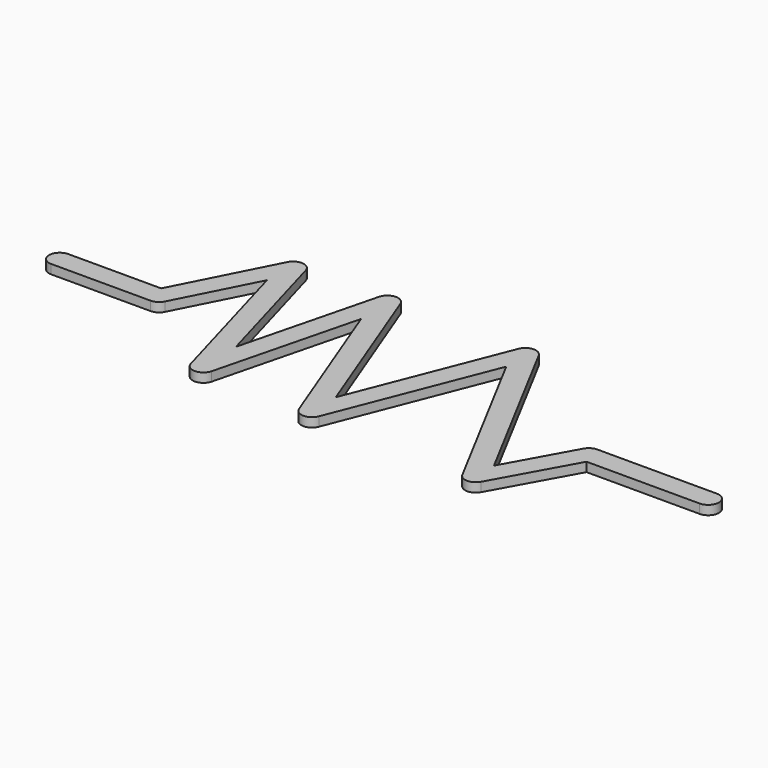
from build123d import *

# Parameters (mm, degrees)
F1_DEPTH = 1.2


with BuildPart() as f1:
    # F0 (on Top) → F1 (new body)
    with BuildSketch(Plane.XY):
        with BuildLine():
            Line((6.3704812502, 13.7467025459), (-1.494936328, -6.2539292195))
            Line((-1.494936328, -6.2539292195), (-0.7523663042, -8.1910684925))
            Line((-0.7523663042, -8.1910684925), (6.9996274972, 11.521142834))
            Line((6.9996274972, 11.521142834), (6.4376895762, 12.5762100378))
            ThreePointArc((6.4376895762, 12.5762100378), (6.2756574717, 13.154082108), (6.3704812502, 13.7467025459))
        make_face()
        with BuildLine():
            ThreePointArc((21.7679784808, -10.2508880555), (21.9322680974, -10.9201946527), (21.7573096757, -11.5867919448))
            Line((21.7573096757, -11.5867919448), (27.3935520686, -1.4))
            Line((27.3935520686, -1.4), (26.5681530039, -1.4))
            ThreePointArc((26.5681530039, -1.4), (26.2181499387, -1.3555433798), (25.8903753784, -1.2249969349))
            Line((25.8903753784, -1.2249969349), (21.3405117264, -9.4482973485))
            Line((21.3405117264, -9.4482973485), (21.7679784808, -10.2508880555))
        make_face()
        with BuildLine():
            ThreePointArc((19.307315806, -10.2312366939), (19.1323573844, -10.897833986), (19.296647001, -11.5671405832))
            ThreePointArc((19.296647001, -11.5671405832), (20.5211324075, -12.3089696759), (21.7573096757, -11.5867919448))
            ThreePointArc((21.7573096757, -11.5867919448), (21.9322680974, -10.9201946527), (21.7679784808, -10.2508880555))
            Line((21.7679784808, -10.2508880555), (21.3405117264, -9.4482973485))
            Line((21.3405117264, -9.4482973485), (20.5323127409, -10.9090143194))
            Line((20.5323127409, -10.9090143194), (19.7475465303, -9.4355755986))
            Line((19.7475465303, -9.4355755986), (19.307315806, -10.2312366939))
        make_face()
        Polygon((-1.494936328, -6.2539292195), (-2.2541858179, -8.1845920629), (-1.5116157942, -10.1217313359), (-0.7523663042, -8.1910684925), align=None)
        Polygon((20.5557455158, -7.9748586277), (19.7475465303, -9.4355755986), (20.5323127409, -10.9090143194), (21.3405117264, -9.4482973485), align=None)
        with BuildLine():
            ThreePointArc((-0.204371223, -9.6206209378), (-0.1116288117, -10.127768624), (-0.2087417282, -10.6340975802))
            Line((-0.2087417282, -10.6340975802), (7.8650201285, 9.8963238823))
            Line((7.8650201285, 9.8963238823), (6.9996274972, 11.521142834))
            Line((6.9996274972, 11.521142834), (-0.7523663042, -8.1910684925))
            Line((-0.7523663042, -8.1910684925), (-0.204371223, -9.6206209378))
        make_face()
        with BuildLine():
            ThreePointArc((26.5681530039, 1.4), (25.8571286286, 1.2060034568), (25.343156069, 0.6777776255))
            ThreePointArc((25.343156069, 0.6777776255), (25.2226882092, -0.3869424845), (25.8903753784, -1.2249969349))
            Line((25.8903753784, -1.2249969349), (26.5681530039, 0))
            Line((26.5681530039, 0), (27.9681530039, 0))
            ThreePointArc((27.9681530039, 0), (27.5581024975, 0.9899494937), (26.5681530039, 1.4))
        make_face()
        with BuildLine():
            Line((25.343156069, 0.6777776255), (20.5557455158, -7.9748586277))
            Line((20.5557455158, -7.9748586277), (21.3405117264, -9.4482973485))
            Line((21.3405117264, -9.4482973485), (25.8903753784, -1.2249969349))
            ThreePointArc((25.8903753784, -1.2249969349), (25.2226882092, -0.3869424845), (25.343156069, 0.6777776255))
        make_face()
        with BuildLine():
            ThreePointArc((8.9090210561, 13.8924625655), (7.5931011225, 14.6320341461), (6.3704812502, 13.7467025459))
            ThreePointArc((6.3704812502, 13.7467025459), (6.2756574717, 13.154082108), (6.4376895762, 12.5762100378))
            Line((6.4376895762, 12.5762100378), (6.9996274972, 11.521142834))
            Line((6.9996274972, 11.521142834), (7.6733553161, 13.2343363017))
            Line((7.6733553161, 13.2343363017), (8.5387479474, 11.6095173501))
            Line((8.5387479474, 11.6095173501), (8.9762293821, 12.7219700574))
            ThreePointArc((8.9762293821, 12.7219700574), (9.0710531606, 13.3145904953), (8.9090210561, 13.8924625655))
        make_face()
        Polygon((-11.1613144434, 11.1400828532), (-10.291221096, 8.8702740266), (-9.6952787124, 11.2269554259), (-10.5653720597, 13.4967642526), align=None)
        with BuildLine():
            Line((-11.9226489058, 13.8399836623), (-16.4153779515, -3.9267187325))
            Line((-16.4153779515, -3.9267187325), (-15.6524504368, -6.6203197433))
            Line((-15.6524504368, -6.6203197433), (-11.1613144434, 11.1400828532))
            Line((-11.1613144434, 11.1400828532), (-11.8726166309, 12.9956538545))
            ThreePointArc((-11.8726166309, 12.9956538545), (-11.9629205569, 13.4139500136), (-11.9226489058, 13.8399836623))
        make_face()
        with BuildLine():
            ThreePointArc((-9.2581274886, 13.9978746507), (-10.6481862987, 14.8943127497), (-11.9226489058, 13.8399836623))
            ThreePointArc((-11.9226489058, 13.8399836623), (-11.9629205569, 13.4139500136), (-11.8726166309, 12.9956538545))
            Line((-11.8726166309, 12.9956538545), (-11.1613144434, 11.1400828532))
            Line((-11.1613144434, 11.1400828532), (-10.5653720597, 13.4967642526))
            Line((-10.5653720597, 13.4967642526), (-9.6952787124, 11.2269554259))
            Line((-9.6952787124, 11.2269554259), (-9.2080952137, 13.1535448428))
            ThreePointArc((-9.2080952137, 13.1535448428), (-9.1678235626, 13.5795784916), (-9.2581274886, 13.9978746507))
        make_face()
        with BuildLine():
            Line((-9.2080952137, 13.1535448428), (-9.6952787124, 11.2269554259))
            Line((-9.6952787124, 11.2269554259), (-2.2541858179, -8.1845920629))
            Line((-2.2541858179, -8.1845920629), (-1.494936328, -6.2539292195))
            Line((-1.494936328, -6.2539292195), (-9.2581274886, 13.9978746507))
            ThreePointArc((-9.2581274886, 13.9978746507), (-9.1678235626, 13.5795784916), (-9.2080952137, 13.1535448428))
        make_face()
        with BuildLine():
            Line((27.7931499387, -0.6777776255), (27.3935520686, -1.4))
            Line((27.3935520686, -1.4), (42.1826000015, -1.4))
            ThreePointArc((42.1826000015, -1.4), (43.5826000015, 0), (42.1826000015, 1.4))
            Line((42.1826000015, 1.4), (26.5681530039, 1.4))
            ThreePointArc((26.5681530039, 1.4), (27.5581024975, 0.9899494937), (27.9681530039, 0))
            ThreePointArc((27.9681530039, 0), (27.9236963836, -0.3500030651), (27.7931499387, -0.6777776255))
        make_face()
        with BuildLine():
            ThreePointArc((-29.5913815498, -1.4), (-30.5813310435, -0.9899494937), (-30.9913815498, 0))
            ThreePointArc((-30.9913815498, 0), (-30.9525728971, 0.327350143), (-30.8382985268, 0.6365516888))
            Line((-30.8382985268, 0.6365516888), (-30.4485578137, 1.4))
            Line((-30.4485578137, 1.4), (-42.5815542539, 1.4))
            ThreePointArc((-42.5815542539, 1.4), (-43.9815542539, 0), (-42.5815542539, -1.4))
            Line((-42.5815542539, -1.4), (-29.5913815498, -1.4))
        make_face()
        with BuildLine():
            Line((-29.5913815498, 0), (-30.9913815498, 0))
            ThreePointArc((-30.9913815498, 0), (-30.5813310435, -0.9899494937), (-29.5913815498, -1.4))
            ThreePointArc((-29.5913815498, -1.4), (-28.8603454236, -1.1939791381), (-28.3444645728, -0.6365516888))
            ThreePointArc((-28.3444645728, -0.6365516888), (-28.2595680841, 0.4315934343), (-28.9548298611, 1.246916977))
            Line((-28.9548298611, 1.246916977), (-29.5913815498, 0))
        make_face()
        with BuildLine():
            ThreePointArc((-29.5913815498, 1.4), (-29.2640314069, 1.3611913473), (-28.9548298611, 1.246916977))
            Line((-28.9548298611, 1.246916977), (-23.7041070264, 11.532358929))
            Line((-23.7041070264, 11.532358929), (-24.1152732197, 12.9840272101))
            ThreePointArc((-24.1152732197, 12.9840272101), (-24.1615440312, 13.5025345407), (-24.0151787573, 14.0021024005))
            Line((-24.0151787573, 14.0021024005), (-30.4485578137, 1.4))
            Line((-30.4485578137, 1.4), (-29.5913815498, 1.4))
        make_face()
        with BuildLine():
            Line((-23.7041070264, 11.532358929), (-28.9548298611, 1.246916977))
            ThreePointArc((-28.9548298611, 1.246916977), (-28.2595680841, 0.4315934343), (-28.3444645728, -0.6365516888))
            Line((-28.3444645728, -0.6365516888), (-23.1431989939, 9.5520103193))
            Line((-23.1431989939, 9.5520103193), (-23.7041070264, 11.532358929))
        make_face()
        with BuildLine():
            Line((-24.1152732197, 12.9840272101), (-23.7041070264, 11.532358929))
            Line((-23.7041070264, 11.532358929), (-22.7682617803, 13.3655507118))
            Line((-22.7682617803, 13.3655507118), (-22.2073537479, 11.3852021021))
            Line((-22.2073537479, 11.3852021021), (-21.5213448033, 12.728999023))
            ThreePointArc((-21.5213448033, 12.728999023), (-21.3749795295, 13.2285668828), (-21.421250341, 13.7470742134))
            ThreePointArc((-21.421250341, 13.7470742134), (-22.6312779514, 14.7588329626), (-24.0151787573, 14.0021024005))
            ThreePointArc((-24.0151787573, 14.0021024005), (-24.1615440312, 13.5025345407), (-24.1152732197, 12.9840272101))
        make_face()
        Polygon((-22.7682617803, 13.3655507118), (-23.7041070264, 11.532358929), (-23.1431989939, 9.5520103193), (-22.2073537479, 11.3852021021), align=None)
        with BuildLine():
            Line((-21.5213448033, 12.728999023), (-22.2073537479, 11.3852021021))
            Line((-22.2073537479, 11.3852021021), (-17.1017092788, -6.6408473417))
            Line((-17.1017092788, -6.6408473417), (-16.4153779515, -3.9267187325))
            Line((-16.4153779515, -3.9267187325), (-21.421250341, 13.7470742134))
            ThreePointArc((-21.421250341, 13.7470742134), (-21.3749795295, 13.2285668828), (-21.5213448033, 12.728999023))
        make_face()
        with BuildLine():
            Line((-22.2073537479, 11.3852021021), (-23.1431989939, 9.5520103193))
            Line((-23.1431989939, 9.5520103193), (-17.6857932034, -9.7159718541))
            ThreePointArc((-17.6857932034, -9.7159718541), (-17.738641348, -9.3542762497), (-17.6960586101, -8.9912289427))
            Line((-17.6960586101, -8.9912289427), (-17.1017092788, -6.6408473417))
            Line((-17.1017092788, -6.6408473417), (-22.2073537479, 11.3852021021))
        make_face()
        with BuildLine():
            ThreePointArc((-17.6960586101, -8.9912289427), (-17.738641348, -9.3542762497), (-17.6857932034, -9.7159718541))
            ThreePointArc((-17.6857932034, -9.7159718541), (-16.3189538669, -10.7343079363), (-14.9815049181, -9.6776677622))
            ThreePointArc((-14.9815049181, -9.6776677622), (-14.9389221803, -9.3146204552), (-14.9917703248, -8.9529248508))
            Line((-14.9917703248, -8.9529248508), (-15.6524504368, -6.6203197433))
            Line((-15.6524504368, -6.6203197433), (-16.3387817641, -9.3344483525))
            Line((-16.3387817641, -9.3344483525), (-17.1017092788, -6.6408473417))
            Line((-17.1017092788, -6.6408473417), (-17.6960586101, -8.9912289427))
        make_face()
        Polygon((-16.4153779515, -3.9267187325), (-17.1017092788, -6.6408473417), (-16.3387817641, -9.3344483525), (-15.6524504368, -6.6203197433), align=None)
        with BuildLine():
            ThreePointArc((-14.9917703248, -8.9529248508), (-14.9389221803, -9.3146204552), (-14.9815049181, -9.6776677622))
            Line((-14.9815049181, -9.6776677622), (-10.291221096, 8.8702740266))
            Line((-10.291221096, 8.8702740266), (-11.1613144434, 11.1400828532))
            Line((-11.1613144434, 11.1400828532), (-15.6524504368, -6.6203197433))
            Line((-15.6524504368, -6.6203197433), (-14.9917703248, -8.9529248508))
        make_face()
        Polygon((6.9996274972, 11.521142834), (7.8650201285, 9.8963238823), (8.5387479474, 11.6095173501), (7.6733553161, 13.2343363017), align=None)
        with BuildLine():
            Line((-9.6952787124, 11.2269554259), (-10.291221096, 8.8702740266))
            Line((-10.291221096, 8.8702740266), (-2.8188603653, -10.622841734))
            ThreePointArc((-2.8188603653, -10.622841734), (-2.9116027766, -10.1156940479), (-2.8144898601, -9.6093650917))
            Line((-2.8144898601, -9.6093650917), (-2.2541858179, -8.1845920629))
            Line((-2.2541858179, -8.1845920629), (-9.6952787124, 11.2269554259))
        make_face()
        with BuildLine():
            Line((8.5387479474, 11.6095173501), (7.8650201285, 9.8963238823))
            Line((7.8650201285, 9.8963238823), (19.296647001, -11.5671405832))
            ThreePointArc((19.296647001, -11.5671405832), (19.1323573844, -10.897833986), (19.307315806, -10.2312366939))
            Line((19.307315806, -10.2312366939), (19.7475465303, -9.4355755986))
            Line((19.7475465303, -9.4355755986), (8.5387479474, 11.6095173501))
        make_face()
        with BuildLine():
            ThreePointArc((-2.8144898601, -9.6093650917), (-2.9116027766, -10.1156940479), (-2.8188603653, -10.622841734))
            ThreePointArc((-2.8188603653, -10.622841734), (-1.5176530822, -11.5217183184), (-0.2087417282, -10.6340975802))
            ThreePointArc((-0.2087417282, -10.6340975802), (-0.1116288117, -10.127768624), (-0.204371223, -9.6206209378))
            Line((-0.204371223, -9.6206209378), (-0.7523663042, -8.1910684925))
            Line((-0.7523663042, -8.1910684925), (-1.5116157942, -10.1217313359))
            Line((-1.5116157942, -10.1217313359), (-2.2541858179, -8.1845920629))
            Line((-2.2541858179, -8.1845920629), (-2.8144898601, -9.6093650917))
        make_face()
        with BuildLine():
            Line((8.9762293821, 12.7219700574), (8.5387479474, 11.6095173501))
            Line((8.5387479474, 11.6095173501), (19.7475465303, -9.4355755986))
            Line((19.7475465303, -9.4355755986), (20.5557455158, -7.9748586277))
            Line((20.5557455158, -7.9748586277), (8.9090210561, 13.8924625655))
            ThreePointArc((8.9090210561, 13.8924625655), (9.0710531606, 13.3145904953), (8.9762293821, 12.7219700574))
        make_face()
        with BuildLine():
            ThreePointArc((-30.8382985268, 0.6365516888), (-30.9525728971, 0.327350143), (-30.9913815498, 0))
            Line((-30.9913815498, 0), (-29.5913815498, 0))
            Line((-29.5913815498, 0), (-28.9548298611, 1.246916977))
            ThreePointArc((-28.9548298611, 1.246916977), (-29.2640314069, 1.3611913473), (-29.5913815498, 1.4))
            Line((-29.5913815498, 1.4), (-30.4485578137, 1.4))
            Line((-30.4485578137, 1.4), (-30.8382985268, 0.6365516888))
        make_face()
        with BuildLine():
            Line((26.5681530039, -1.4), (27.3935520686, -1.4))
            Line((27.3935520686, -1.4), (27.7931499387, -0.6777776255))
            ThreePointArc((27.7931499387, -0.6777776255), (27.9236963836, -0.3500030651), (27.9681530039, 0))
            Line((27.9681530039, 0), (26.5681530039, 0))
            Line((26.5681530039, 0), (25.8903753784, -1.2249969349))
            ThreePointArc((25.8903753784, -1.2249969349), (26.2181499387, -1.3555433798), (26.5681530039, -1.4))
        make_face()
    extrude(amount=F1_DEPTH)


solid = f1.part
